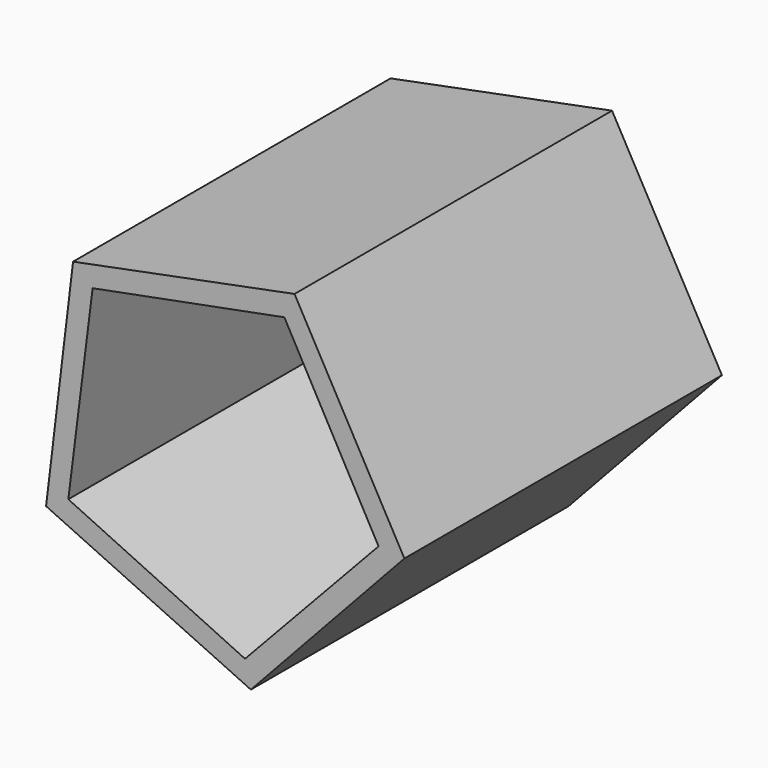
from build123d import *

# Parameters (mm, degrees)
F1_DEPTH = 101.6
F3_DEPTH = 96.52


with BuildPart() as f1:
    # F0 (on Front) → F1 (new body)
    with BuildSketch(Plane.XZ):
        Polygon((48.790029, -5.877001), (20.666308, 44.585982), (-36.017548, 33.432653), (-42.926377, -23.923466), (9.487588, -48.218168), align=None)
    extrude(amount=F1_DEPTH)

    # F2 (on face) → F3 (cut)
    with BuildSketch(Plane.XZ.offset(101.6)):
        Polygon((42.178061, -5.292378), (18.067088, 38.478285), (-31.011986, 29.073266), (-37.23355, -20.510018), (8.000387, -41.749154), align=None)
    extrude(amount=-F3_DEPTH, mode=Mode.SUBTRACT)


solid = f1.part
